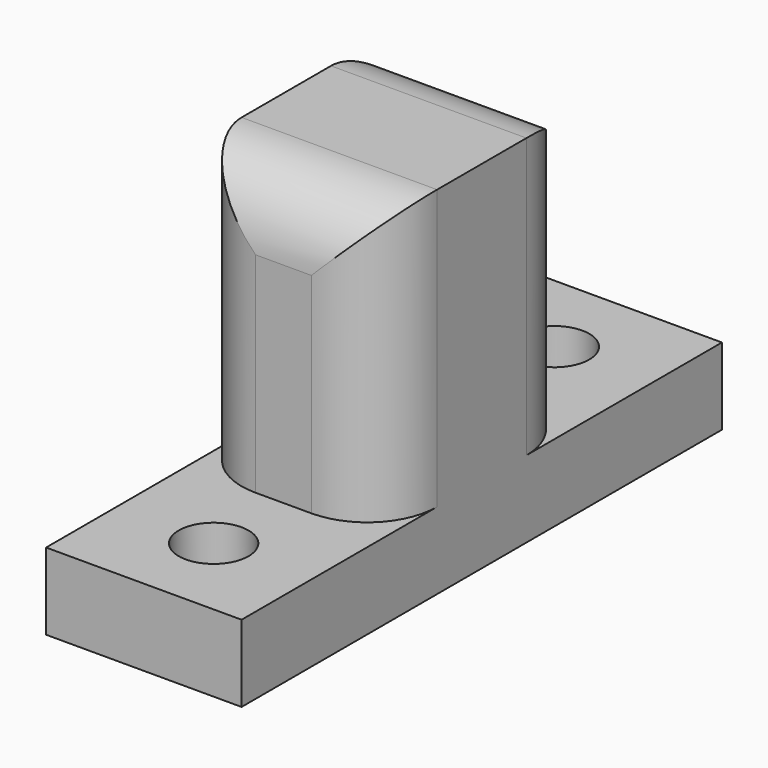
from build123d import *

# Parameters (mm, degrees)
F0_W     = 18
F0_H     = 20
F1_DEPTH = 14
F2_R     = 2.5
F3_DEPTH = 5.8
F4_R     = 5
F5_R     = 3.725
F6_DEPTH = 12


with BuildPart() as f1:
    # F0 (on Right) → F1 (new body)
    with BuildSketch(Plane.YZ):
        with Locations((-21.5, 15.5)):
            Rectangle(F0_W, F0_H)
        Polygon((-43, 0), (0, 0), (0, 5.5), (-12.5, 5.5), (-30.5, 5.5), (-43, 5.5), align=None)
    extrude(amount=F1_DEPTH)

    # F2 (on face) → F3 (cut)
    with BuildSketch(Plane.XY.offset(5.5)):
        with Locations((7, -6.25)):
            Circle(F2_R)
        with Locations((7, -36.75)):
            Circle(F2_R)
    extrude(amount=-F3_DEPTH, mode=Mode.SUBTRACT)

    # F4
    f4_edges = [f1.edges().sort_by_distance(p)[0] for p in [
        (7, -30.5, 25.5),
        (7, -12.5, 25.5),
        (14, -30.5, 15.5),
        (14, -12.5, 15.5),
        (0, -12.5, 15.5),
        (0, -30.5, 15.5),
    ]]
    fillet(f4_edges, radius=F4_R)

    # F5 (on face) → F6 (cut)
    with BuildSketch(Plane.YZ):
        with Locations((-21.5, 19.775)):
            Circle(F5_R)
    extrude(amount=F6_DEPTH, mode=Mode.SUBTRACT)


solid = f1.part
